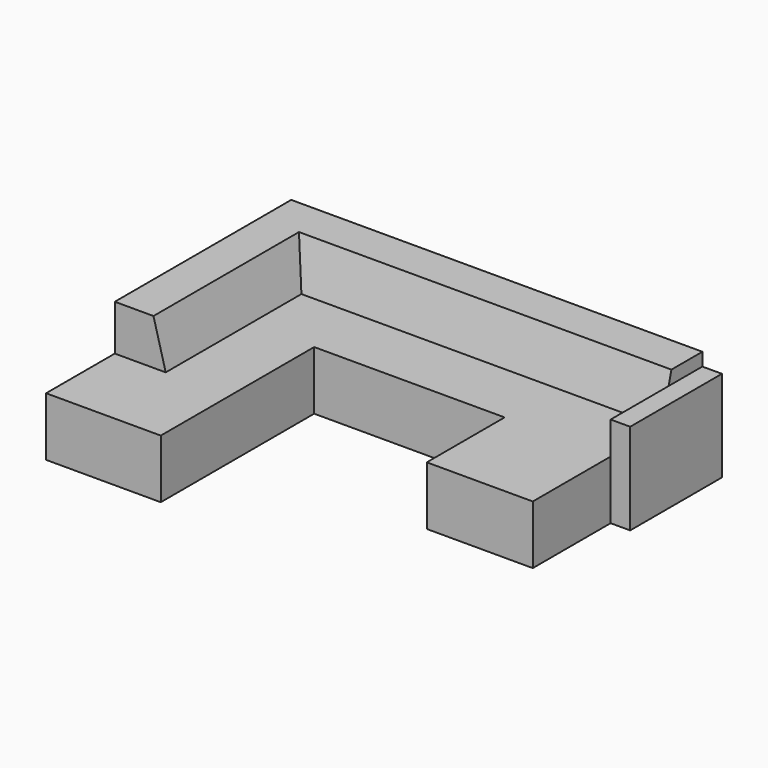
from build123d import *

# Parameters (mm, degrees)
F1_DEPTH  = 450
F2_W      = 879.475
F2_H      = 150
F2_W_2    = 150
F2_H_2    = 879.475
F3_DEPTH  = 250
F5_DEPTH  = 2200
F8_W      = 658.5683822632
F8_H      = 350
F9_DEPTH  = 879.476
F10_W     = 812.8
F10_H     = 746.125
F11_DEPTH = 450


with BuildPart() as f1:
    # F0 (on Top) → F1 (new body)
    with BuildSketch(Plane.XY):
        Polygon((0, 2350), (0, 0), (879.475, 0), (879.475, 1470.525), (3302.8, 1470.525), (3302.8, 2350), align=None)
    extrude(amount=F1_DEPTH)

    # F2 (on face) → F3 (join)
    with BuildSketch(Plane.XY.offset(450)):
        with Locations((439.7375, 75)):
            Rectangle(F2_W, F2_H)
        with Locations((3227.8, 1910.2625)):
            Rectangle(F2_W_2, F2_H_2)
    extrude(amount=F3_DEPTH)

    # F4 (on face) → F5 (join, through all)
    with BuildSketch(Plane(origin=(0, 150, 0), x_dir=(-1, 0, 0), z_dir=(0, 1, 0))):
        Polygon((-390.525, 450), (0, 450), (0, 800), (-296.7427826491, 800), align=None)
    extrude(amount=F5_DEPTH)

    # F6 (on face) → F7 (join, up to the next surface of F1)
    with BuildSketch(Plane(origin=(3152.8, 0, 0), x_dir=(0, -1, 0), z_dir=(-1, 0, 0))):
        Polygon((-2350, 800), (-2350, 450), (-1959.475, 450), (-2053.2572173509, 800), align=None)
    extrude(until=Until.NEXT)

    # F8 (on face) → F9 (cut, through all)
    with BuildSketch(Plane.YZ.offset(879.475)):
        with Locations((329.2841911316, 625)):
            Rectangle(F8_W, F8_H)
    extrude(amount=-F9_DEPTH, mode=Mode.SUBTRACT)

    # F10 (on face) → F11 (join, through all)
    with BuildSketch(Plane.XY.offset(450)):
        with Locations((2746.4, 1097.4625)):
            Rectangle(F10_W, F10_H)
    extrude(amount=-F11_DEPTH)


solid = f1.part
